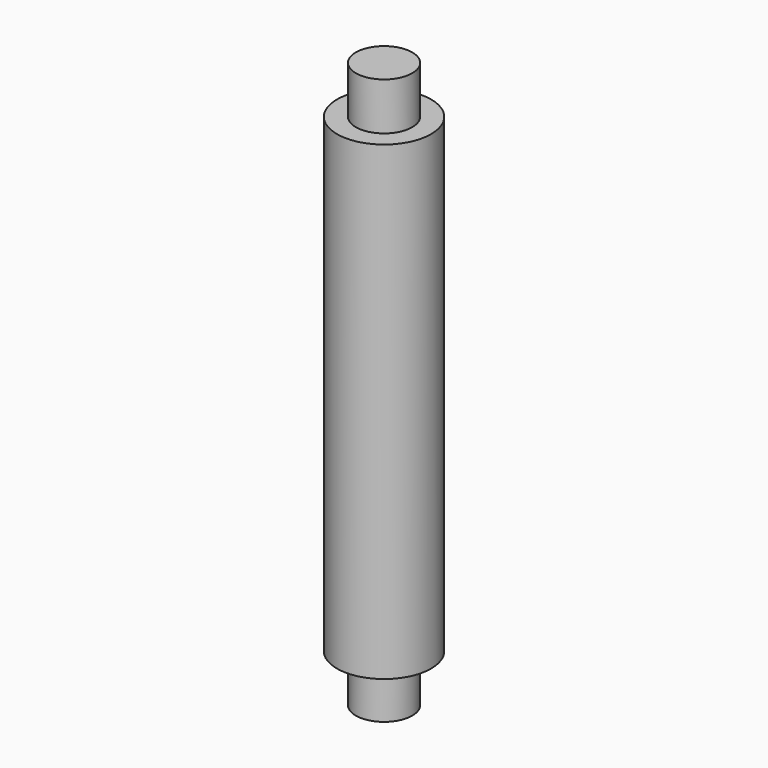
from build123d import *

# Parameters (mm, degrees)
F0_R     = 10
F1_DEPTH = 50
F2_R     = 6
F3_DEPTH = 10.1


with BuildPart() as f1:
    # F0 (on Top) → F1 (new body, symmetric)
    with BuildSketch(Plane.XY):
        Circle(F0_R)
    extrude(amount=F1_DEPTH, both=True)

    # F2 (on face) → F3 (join)
    with BuildSketch(Plane.XY.offset(50)):
        Circle(F2_R)
    extrude(amount=F3_DEPTH)

    # F4: F1 across plane


with BuildPart() as f1_1:
    add(f1.part)
    add(f1.part.mirror(Plane.XY))


solid = f1_1.part
